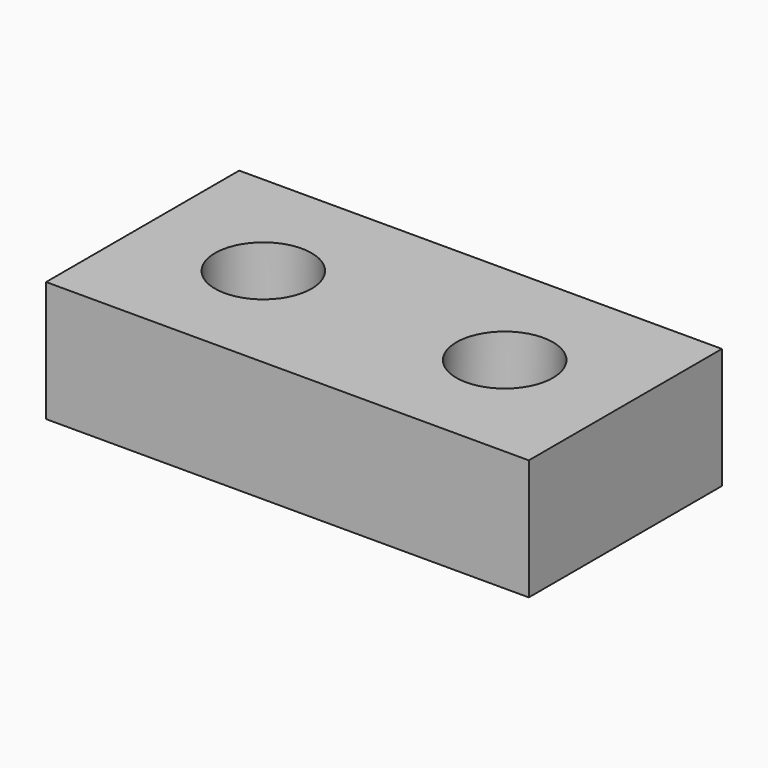
from build123d import *

# Parameters (mm, degrees)
SKETCH_W        = 40
SKETCH_H        = 20
SKETCH_R        = 4
PAD_DEPTH       = 10
POCKET_DEPTH    = 5
SKETCH002_W     = 14
SKETCH002_H     = 8
POCKET001_DEPTH = 0.2
SKETCH003_W     = 8
SKETCH003_H     = 8
POCKET002_DEPTH = 0.2


with BuildPart() as part:
    # Sketch → Pad (new body)
    with BuildSketch(Plane.XY):
        Rectangle(SKETCH_W, SKETCH_H)
        with Locations((-10, 0)):
            Circle(SKETCH_R, mode=Mode.SUBTRACT)
        with Locations((10, 0)):
            Circle(SKETCH_R, mode=Mode.SUBTRACT)
    extrude(amount=PAD_DEPTH)

    # Sketch001 → Pocket (cut)
    with BuildSketch(Plane.XY):
        Polygon((-6.5, 6.062178), (-13.5, 6.062178), (-17, 0), (-13.5, -6.062178), (-6.5, -6.062178), (-3, 0), align=None)
        Polygon((13.5, 6.062178), (6.5, 6.062178), (3, 0), (6.5, -6.062178), (13.5, -6.062178), (17, 0), align=None)
    extrude(amount=POCKET_DEPTH, mode=Mode.SUBTRACT)

    # Sketch002 (on Face21 of Pocket) → Pocket001 (cut)
    with BuildSketch(Plane(origin=(0, 0, 5), x_dir=(1, 0, 0), z_dir=(0, 0, -1))):
        with Locations((-10, 0)):
            Rectangle(SKETCH002_W, SKETCH002_H)
    extrude(amount=-POCKET001_DEPTH, mode=Mode.SUBTRACT)

    # Sketch003 (on Face28 of Pocket001) → Pocket002 (cut)
    with BuildSketch(Plane(origin=(0, 0, 5.2), x_dir=(1, 0, 0), z_dir=(0, 0, -1))):
        with Locations((-10, 0)):
            Rectangle(SKETCH003_W, SKETCH003_H)
    extrude(amount=-POCKET002_DEPTH, mode=Mode.SUBTRACT)


solid = part.part
